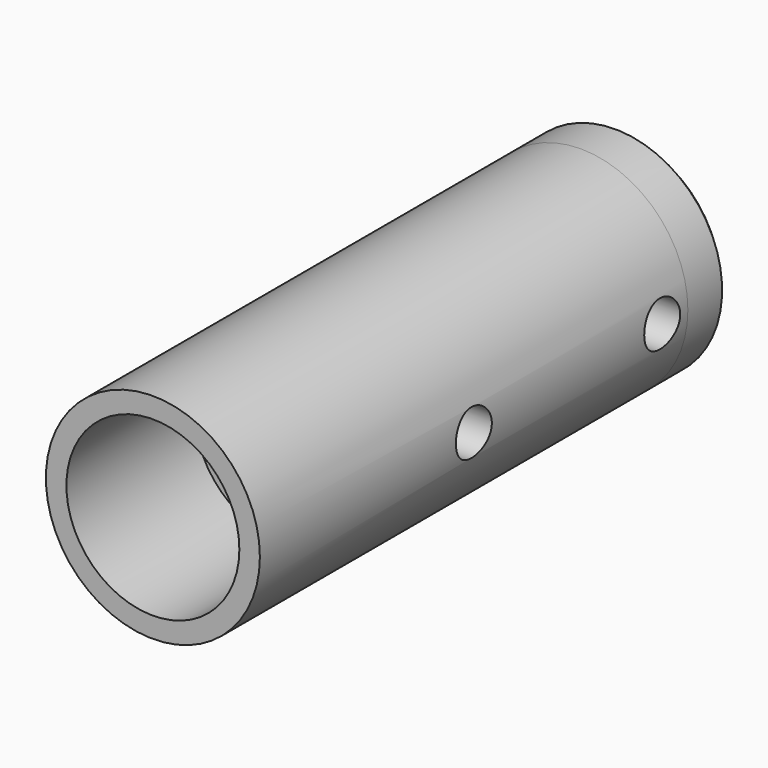
from build123d import *

# Parameters (mm, degrees)
F0_R      = 10
F0_R_2    = 6
F1_DEPTH  = 50
F2_R      = 10
F3_DEPTH  = 5
F4_R      = 8.0824379909
F5_DEPTH  = 15
F6_R      = 2.5
F7_DEPTH  = 55.001
F8_SIZE   = 1
F11_D     = 4.2
F11_DEPTH = 7.4
F11_START = 0.2229862
F11_TIP   = 1.2618073


with BuildPart() as f1:
    # F0 (on Front) → F1 (new body)
    with BuildSketch(Plane.XZ):
        Circle(F0_R)
        Circle(F0_R_2, mode=Mode.SUBTRACT)
    extrude(amount=F1_DEPTH)

    # F2 (on face) → F3 (join)
    with BuildSketch(Plane(origin=(0, 0, 0), x_dir=(-1, 0, 0), z_dir=(0, 1, 0))):
        Circle(F2_R)
    extrude(amount=F3_DEPTH)

    # F4 (on face) → F5 (cut)
    with BuildSketch(Plane.XZ.offset(50)):
        Circle(F4_R)
    extrude(amount=-F5_DEPTH, mode=Mode.SUBTRACT)

    # F6 (on face) → F7 (cut, through all)
    with BuildSketch(Plane(origin=(0, 5, 0), x_dir=(-1, 0, 0), z_dir=(0, 1, 0))):
        Circle(F6_R)
    extrude(amount=-F7_DEPTH, mode=Mode.SUBTRACT)

    # F8
    f8_edges = [f1.edges().sort_by_distance(p)[0] for p in [
        (10, 5, 0),
    ]]
    chamfer(f8_edges, length=F8_SIZE)

    # F11
    # its depths count from where the whole tool has entered the part; down to there all is cleared
    with Locations(Plane.YZ.offset(10).offset(-F11_START)):
        with Locations((-25, 0), (-3, 0)):
            Hole(F11_D / 2, depth=F11_DEPTH)
            with Locations((0, 0, -(F11_DEPTH + F11_TIP / 2))):  # 118° drill point
                Cone(0, F11_D / 2, F11_TIP, mode=Mode.SUBTRACT)


solid = f1.part
